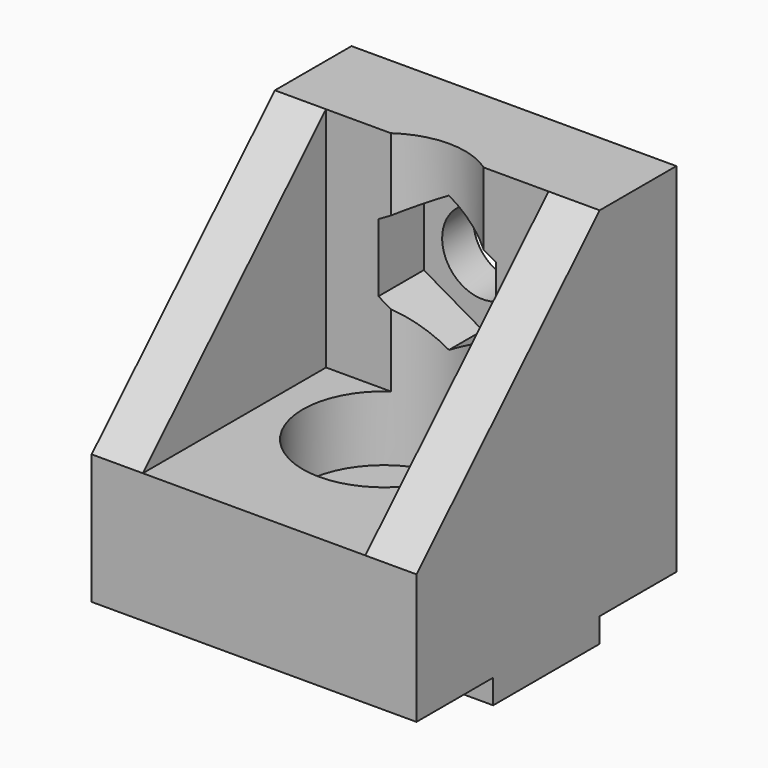
from build123d import *

# Parameters (mm, degrees)
PAD_DEPTH       = 10
SKETCH001_W     = 14.1
SKETCH001_H     = 13.7
POCKET_DEPTH    = 14
SKETCH002_R     = 2.5
POCKET001_DEPTH = 23.501
SKETCH003_W     = 8.2
SKETCH003_H     = 16.5
POCKET002_DEPTH = 1.5
SKETCH004_R     = 2.5
POCKET003_DEPTH = 20.001
SKETCH005_R     = 5
POCKET004_DEPTH = 18
POCKET005_DEPTH = 3.5


with BuildPart() as part:
    # Sketch → Pad (new body, symmetric)
    with BuildSketch(Plane.YZ):
        Polygon((0, -1.5), (8.2, -1.5), (8.2, 0), (14.1, 0), (14.1, 22), (8.2, 22), (-5.9, 8), (-5.9, 0), (0, 0), align=None)
    extrude(amount=PAD_DEPTH, both=True)

    # Sketch001 (on Face8 of Pad) → Pocket (cut)
    with BuildSketch(Plane(origin=(0, 0, 22), x_dir=(0, -1, 0), z_dir=(0, 0, 1))):
        with Locations((-1.15, 0)):
            Rectangle(SKETCH001_W, SKETCH001_H)
    extrude(amount=-POCKET_DEPTH, mode=Mode.SUBTRACT)

    # Sketch002 (on Face11 of Pocket) → Pocket001 (cut, through all)
    with BuildSketch(Plane.YX.offset(1.5)):
        with Locations((4.1, 0)):
            Circle(SKETCH002_R)
    extrude(amount=-POCKET001_DEPTH, mode=Mode.SUBTRACT)

    # Sketch003 (on Face11 of Pocket001) → Pocket002 (cut)
    with BuildSketch(Plane.YX.offset(1.5)):
        with Locations((4.1, 0)):
            Rectangle(SKETCH003_W, SKETCH003_H)
    extrude(amount=-POCKET002_DEPTH, mode=Mode.SUBTRACT)

    # Sketch004 (on Face14 of Pocket002) → Pocket003 (cut, through all)
    with BuildSketch(Plane.ZX.offset(14.1)):
        with Locations((15, 0)):
            Circle(SKETCH004_R)
    extrude(amount=-POCKET003_DEPTH, mode=Mode.SUBTRACT)

    # Sketch005 (on Face8 of Pocket003) → Pocket004 (cut)
    with BuildSketch(Plane(origin=(0, 0, 22), x_dir=(0, -1, 0), z_dir=(0, 0, 1))):
        with Locations((-4.1, 0)):
            Circle(SKETCH005_R)
    extrude(amount=-POCKET004_DEPTH, mode=Mode.SUBTRACT)

    # Sketch006 (on Face17 of Pocket004) → Pocket005 (cut)
    with BuildSketch(Plane(origin=(0, 8.2, 0), x_dir=(0, 0, -1), z_dir=(0, -1, 0))):
        Polygon((-10.814211, 0), (-12.907105, 3.625), (-17.092895, 3.625), (-19.185789, 0), (-17.092895, -3.625), (-12.907105, -3.625), align=None)
    extrude(amount=-POCKET005_DEPTH, mode=Mode.SUBTRACT)


solid = part.part
